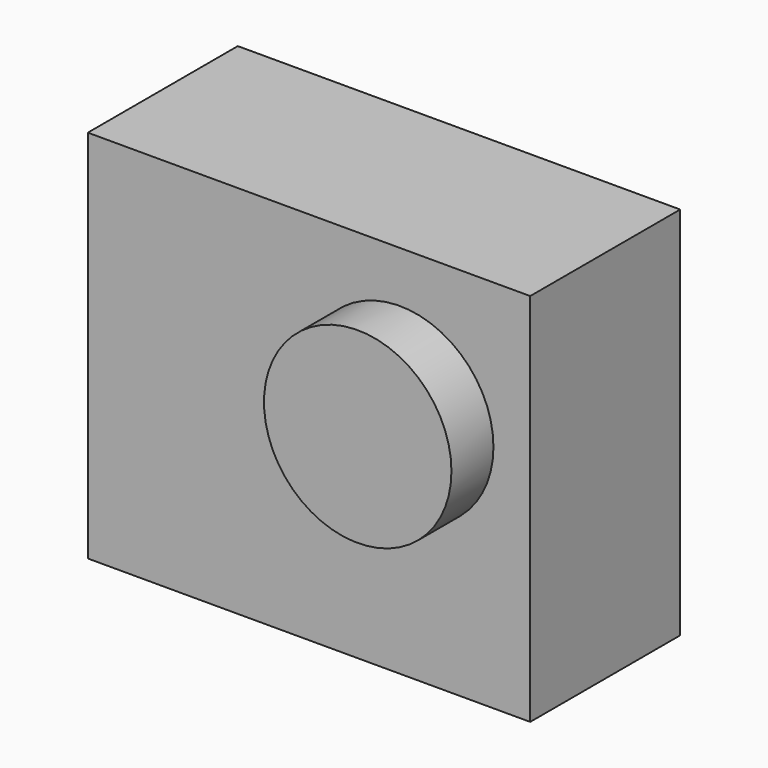
from build123d import *

# Parameters (mm, degrees)
F0_W     = 59
F0_H     = 50
F1_DEPTH = 12.5
F3_R     = 12.5
F4_DEPTH = 7


with BuildPart() as f1:
    # F0 (on Front) → F1 (new body, symmetric)
    with BuildSketch(Plane.XZ):
        Rectangle(F0_W, F0_H)
    extrude(amount=F1_DEPTH, both=True)

    # F3 (on face) → F4 (join)
    with BuildSketch(Plane.XZ.offset(12.5)):
        with Locations((12.0948115364, 5.6871213019)):
            Circle(F3_R)
    extrude(amount=F4_DEPTH)


solid = f1.part
